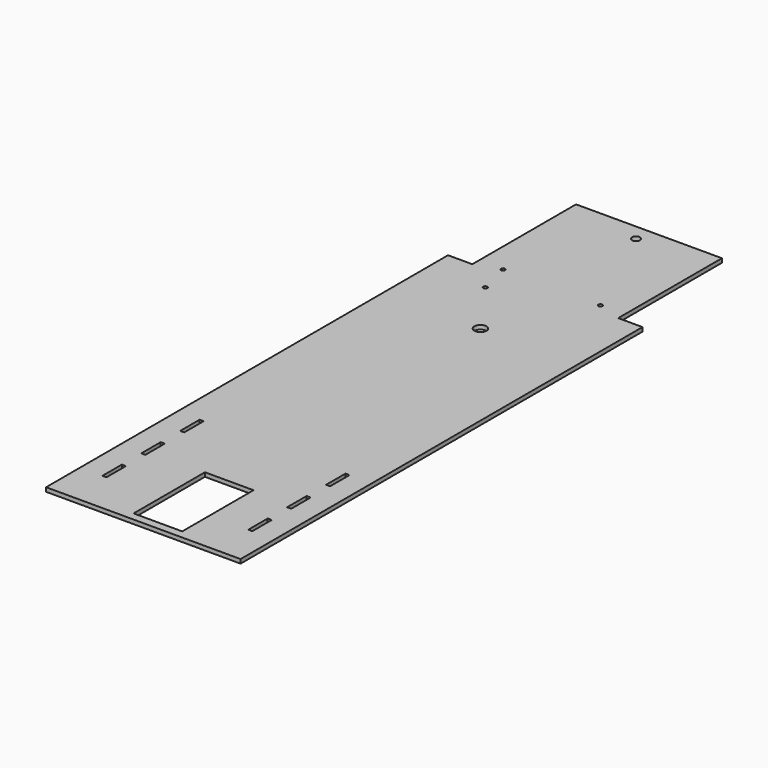
from build123d import *

# Parameters (mm, degrees)
F1_DEPTH = 12.7
F2_R     = 12.7
F3_DEPTH = 19.05
F4_W     = 12.7
F4_H     = 76.2
F4_R     = 6.35
F4_R_2   = 1.5875
F4_R_3   = 19.05
F5_DEPTH = 19.05
F6_DEPTH = 12.7
F7_R     = 1.5875
F8_DEPTH = 3.175


with BuildPart() as f1:
    # F0 (on Top) → F1 (new body)
    with BuildSketch(Plane.XY):
        Polygon((304.157444, 1142.615758), (-153.042556, 1142.615758), (-153.042556, 736.215758), (-229.242556, 736.215758), (-229.242556, -838.584242), (-63.805879, -838.584242), (380.357444, -838.584242), (380.357444, 736.215758), (304.157444, 736.215758), align=None)
    extrude(amount=F1_DEPTH)

    # F2 (on face) → F3 (cut)
    with BuildSketch(Plane.XY.offset(12.7)):
        Polygon((177.157444, -533.784242), (126.357444, -533.784242), (24.757444, -533.784242), (24.757444, -813.184242), (126.357444, -813.184242), (177.157444, -813.184242), align=None)
        with Locations((75.557444, 1091.815758)):
            Circle(F2_R)
    extrude(amount=-F3_DEPTH, mode=Mode.SUBTRACT)

    # F4 (on face) → F5 (cut)
    with BuildSketch(Plane.XY.offset(12.7)):
        with Locations((-153.042556, -667.134242)):
            Rectangle(F4_W, F4_H)
        with Locations((-153.042556, -514.734242)):
            Rectangle(F4_W, F4_H)
        with Locations((-153.042556, -362.334242)):
            Rectangle(F4_W, F4_H)
        with Locations((304.157444, -514.734242)):
            Rectangle(F4_W, F4_H)
        with Locations((304.157444, -667.134242)):
            Rectangle(F4_W, F4_H)
        with Locations((304.157444, -362.334242)):
            Rectangle(F4_W, F4_H)
        with Locations((227.957444, 761.615758)):
            Circle(F4_R)
        with Locations((-76.842556, 761.615758)):
            Circle(F4_R)
        with Locations((75.557444, 736.215758)):
            Circle(F4_R_2)
        with Locations((75.557444, 482.215758)):
            Circle(F4_R_3)
        with Locations((-51.442556, 660.015758)):
            Circle(F4_R)
    extrude(amount=-F5_DEPTH, mode=Mode.SUBTRACT)

    # F4 (on face) → F6 (cut)
    with BuildSketch(Plane.XY.offset(12.7)):
        with Locations((-153.042556, -667.134242)):
            Rectangle(F4_W, F4_H)
        with Locations((-153.042556, -514.734242)):
            Rectangle(F4_W, F4_H)
        with Locations((-153.042556, -362.334242)):
            Rectangle(F4_W, F4_H)
        with Locations((304.157444, -514.734242)):
            Rectangle(F4_W, F4_H)
        with Locations((304.157444, -667.134242)):
            Rectangle(F4_W, F4_H)
        with Locations((304.157444, -362.334242)):
            Rectangle(F4_W, F4_H)
        with Locations((227.957444, 761.615758)):
            Circle(F4_R)
        with Locations((-76.842556, 761.615758)):
            Circle(F4_R)
        with Locations((75.557444, 736.215758)):
            Circle(F4_R_2)
        with Locations((75.557444, 482.215758)):
            Circle(F4_R_3)
        with Locations((-51.442556, 660.015758)):
            Circle(F4_R)
    extrude(amount=-F6_DEPTH, mode=Mode.SUBTRACT)

    # F7 (on face) → F8 (join)
    with BuildSketch(Plane.XY.offset(12.7)):
        with Locations((75.557444, 736.215758)):
            Circle(F7_R)
    extrude(amount=-F8_DEPTH)


solid = f1.part
